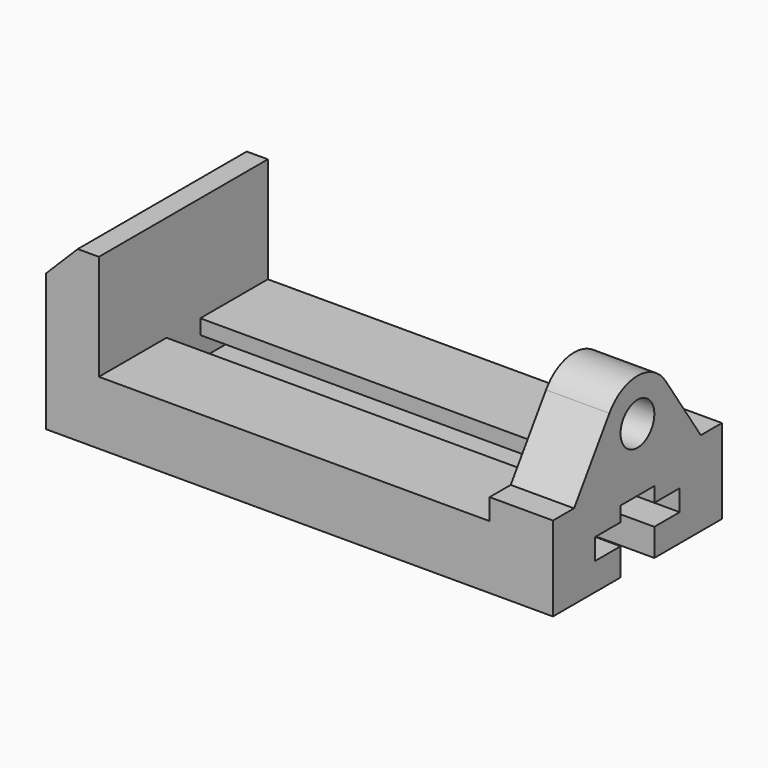
from build123d import *

# Parameters (mm, degrees)
F1_DEPTH = 63.5
F2_SIZE2 = 19.05
F2_SIZE  = 19.05
F4_DEPTH = 273.05
F5_R     = 12.7
F6_DEPTH = 38.1


with BuildPart() as f1:
    # F0 (on Front) → F1 (new body, symmetric)
    with BuildSketch(Plane.XZ):
        Polygon((0, 38.1), (0, 0), (304.8, 0), (304.8, 38.1), (304.8, 50.8), (266.7, 50.8), (266.7, 38.1), (31.75, 38.1), (31.75, 101.6), (0, 101.6), align=None)
    extrude(amount=F1_DEPTH, both=True)

    # F2
    f2_edges = [f1.edges().sort_by_distance(p)[0] for p in [
        (0, 0, 101.6),
    ]]
    chamfer(f2_edges, length=F2_SIZE, length2=F2_SIZE2)

    # F3 (on face) → F4 (cut, through all)
    with BuildSketch(Plane.YZ.offset(304.8)):
        Polygon((-12.7, 16.51), (-12.7, 0), (12.7, 0), (12.7, 16.51), (31.75, 16.51), (31.75, 29.21), (12.7, 29.21), (12.7, 38.1), (-12.7, 38.1), (-12.7, 29.21), (-31.75, 29.21), (-31.75, 16.51), align=None)
    extrude(amount=-F4_DEPTH, mode=Mode.SUBTRACT)

    # F5 (on face) → F6 (join, through all)
    with BuildSketch(Plane.YZ.offset(304.8)):
        with BuildLine():
            Line((-21.093426, 90.350173), (-47.625, 50.8))
            Line((-47.625, 50.8), (47.625, 50.8))
            Line((47.625, 50.8), (21.093426, 90.350173))
            ThreePointArc((21.093426, 90.350173), (0, 101.6), (-21.093426, 90.350173))
        make_face()
        with Locations((0, 76.2)):
            Circle(F5_R, mode=Mode.SUBTRACT)
    extrude(amount=-F6_DEPTH)


solid = f1.part
